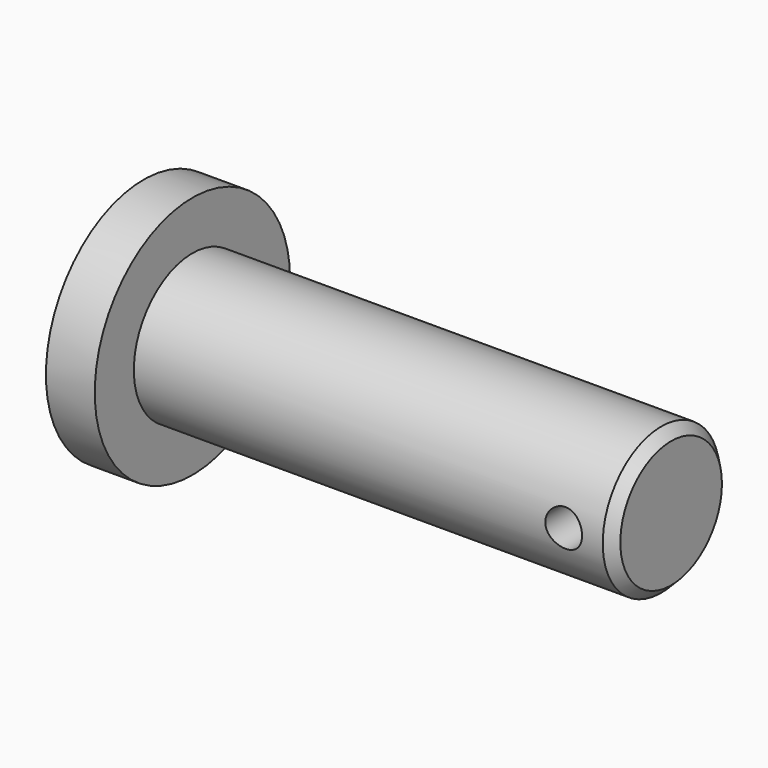
from build123d import *

# Parameters (mm, degrees)
F0_R          = 15.875
F1_DEPTH      = 6.35
F2_R          = 9.525
F3_DEPTH      = 62.23
F4_R          = 2.3876
F5_DEPTH      = 15.876
F5_DEPTH_BACK = 15.876
F6_SIZE2      = 1.27
F6_SIZE       = 1.27


with BuildPart() as f1:
    # F0 (on Right) → F1 (new body)
    with BuildSketch(Plane.YZ):
        Circle(F0_R)
    extrude(amount=-F1_DEPTH)

    # F2 (on face) → F3 (join)
    with BuildSketch(Plane.YZ):
        Circle(F2_R)
    extrude(amount=F3_DEPTH)

    # F4 (on Front) → F5 (cut, two sides)
    with BuildSketch(Plane.XZ) as f5_sk:
        with Locations((55.88, 0)):
            Circle(F4_R)
    extrude(amount=-F5_DEPTH, mode=Mode.SUBTRACT)
    extrude(f5_sk.sketch, amount=F5_DEPTH_BACK, mode=Mode.SUBTRACT)

    # F6
    f6_edges = [f1.edges().sort_by_distance(p)[0] for p in [
        (62.23, -9.525, 0),
    ]]
    chamfer(f6_edges, length=F6_SIZE, length2=F6_SIZE2)


solid = f1.part
